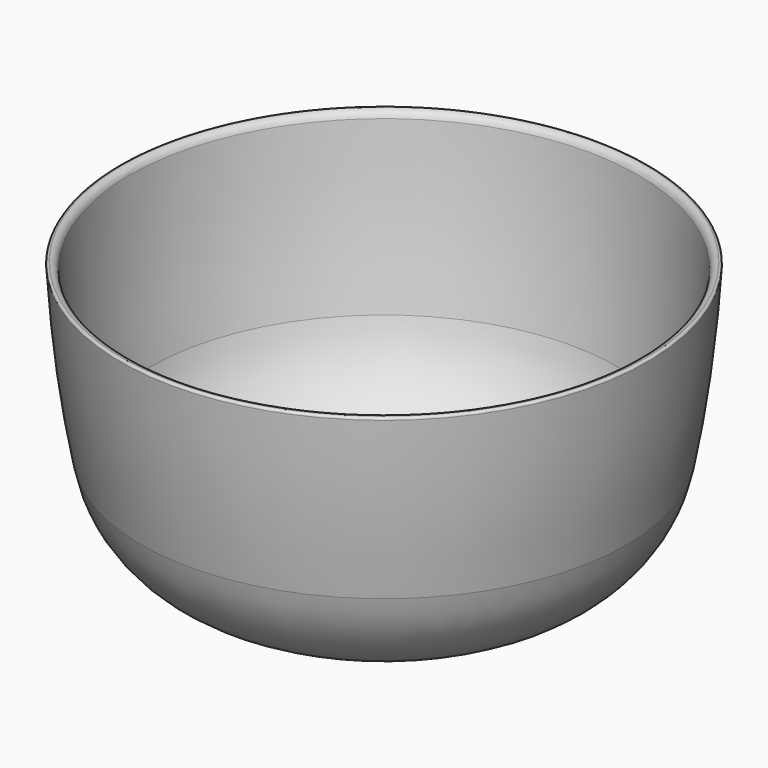
from build123d import *

# Parameters (mm, degrees)
F2_R = 1
F3_R = 1.5
F4_R = 5
F5_R = 3


with BuildPart() as f1:
    # F0 (on Front) → F1 (revolve)
    with BuildSketch(Plane.XZ):
        with BuildLine():
            Line((-50, 0), (0, 0))
            Line((0, 0), (0, 4))
            Line((0, 4), (-50, 4))
            ThreePointArc((-50, 4), (-62.853434, 5.586957), (-74.934897, 10.252518))
            ThreePointArc((-74.934897, 10.252518), (-92.463312, 25.388512), (-101.83661, 46.565976))
            ThreePointArc((-101.83661, 46.565976), (-107.732623, 83.11874), (-110.994553, 120))
            Line((-110.994553, 120), (-115, 120))
            ThreePointArc((-115, 120), (-111.714837, 82.727745), (-105.760196, 45.787854))
            ThreePointArc((-105.760196, 45.787854), (-97.103281, 25.022165), (-81.068456, 9.241151))
            ThreePointArc((-81.068456, 9.241151), (-67.63945, 2.80603), (-53, 0.079216))
            ThreePointArc((-53, 0.079216), (-51.500523, 0.019808), (-50, 0))
        make_face()
        with BuildLine():
            Line((-50, -2), (-50, 0))
            ThreePointArc((-50, 0), (-51.500523, 0.019808), (-53, 0.079216))
            Line((-53, 0.079216), (-53, -2))
            Line((-53, -2), (-50, -2))
        make_face()
    revolve(axis=Axis((0, 0, 2), (0, 0, -1)))

    # F2
    f2_edges = [f1.edges().sort_by_distance(p)[0] for p in [
        (53, 0, -2),
        (50, 0, -2),
        (115, 0, 120),
    ]]
    fillet(f2_edges, radius=F2_R)

    # F3
    f3_edges = [f1.edges().sort_by_distance(p)[0] for p in [
        (53, 0, 0.079216),
    ]]
    fillet(f3_edges, radius=F3_R)

    # F4
    f4_edges = [f1.edges().sort_by_distance(p)[0] for p in [
        (50, 0, 0),
    ]]
    fillet(f4_edges, radius=F4_R)

    # F5
    f5_edges = [f1.edges().sort_by_distance(p)[0] for p in [
        (110.994553, 0, 120),
    ]]
    fillet(f5_edges, radius=F5_R)


solid = f1.part
